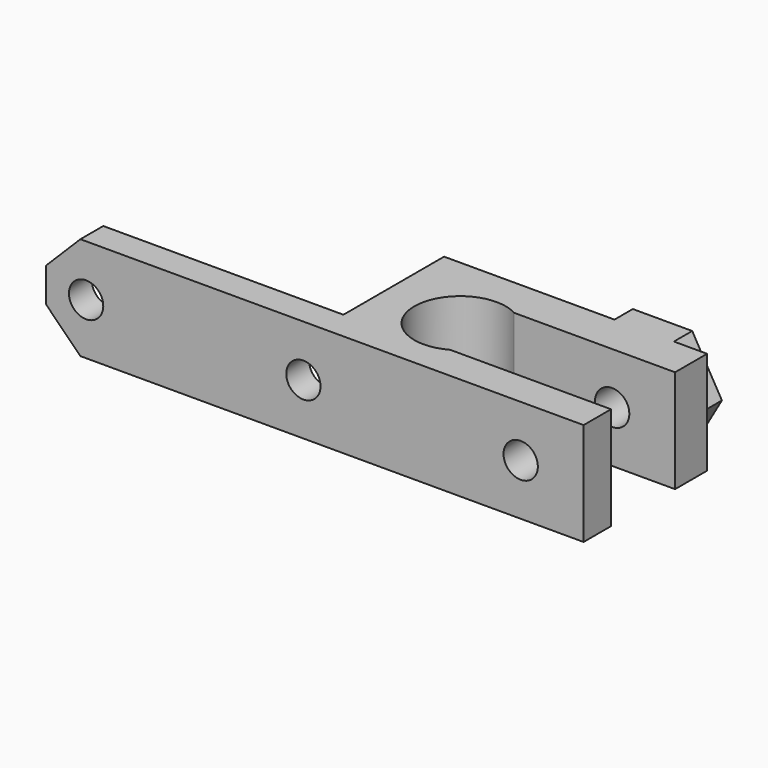
from build123d import *

# Parameters (mm, degrees)
PAD_DEPTH       = 9
SKETCH001_R     = 1.5
POCKET_DEPTH    = 13.501
SKETCH002_R     = 3
POCKET001_DEPTH = 11
PAD001_DEPTH    = 2
POCKET002_DEPTH = 2.501


with BuildPart() as part:
    # Sketch → Pad (new body)
    with BuildSketch(Plane.XY):
        with BuildLine():
            Line((-7, -4), (-31, -4))
            Line((-31, -4), (-31, -6.5))
            Line((-31, -6.5), (16, -6.5))
            Line((16, -6.5), (16, -3.5))
            Line((16, -3.5), (1.936492, -3.5))
            ThreePointArc((1.936492, 3.5), (-4, 0), (1.936492, -3.5))
            Line((1.936492, 3.5), (16, 3.5))
            Line((16, 7), (16, 3.5))
            Line((0, 7), (16, 7))
            Line((-7, 7), (0, 7))
            Line((-7, -4), (-7, 7))
        make_face()
    extrude(amount=PAD_DEPTH)

    # Sketch001 → Pocket (cut, through all)
    with BuildSketch(Plane.XZ.offset(6.5)):
        with Locations((-27.5, 4.5)):
            Circle(SKETCH001_R)
        with Locations((-8.5, 4.5)):
            Circle(SKETCH001_R)
        with Locations((10.5, 4.5)):
            Circle(SKETCH001_R)
    extrude(amount=-POCKET_DEPTH, mode=Mode.SUBTRACT)

    # Sketch002 → Pocket001 (cut)
    with BuildSketch(Plane(origin=(0, 7, 0), x_dir=(-1, 0, 0), z_dir=(0, 1, 0))):
        with Locations((8.5, 4.5)):
            Circle(SKETCH002_R)
    extrude(amount=-POCKET001_DEPTH, mode=Mode.SUBTRACT)

    # Sketch003 → Pad001 (new body)
    with BuildSketch(Plane(origin=(0, 7, 0), x_dir=(-1, 0, 0), z_dir=(0, 1, 0))):
        Polygon((-13.098076, 9), (-15.696152, 4.5), (-13.098076, 0), (-7.901924, 0), (-5.303848, 4.5), (-7.901924, 9), align=None)
        Polygon((-9, 1.901924), (-7.5, 4.5), (-9, 7.098076), (-12, 7.098076), (-13.5, 4.5), (-12, 1.901924), align=None, mode=Mode.SUBTRACT)
    extrude(amount=PAD001_DEPTH)

    # Sketch004 → Pocket002 (cut, through all)
    with BuildSketch(Plane(origin=(0, -4, 0), x_dir=(-1, 0, 0), z_dir=(0, 1, 0))):
        Polygon((31, 6), (28, 9), (31, 9), align=None)
        Polygon((28, 0), (31, 0), (31, 3), align=None)
    extrude(amount=-POCKET002_DEPTH, mode=Mode.SUBTRACT)


solid = part.part
